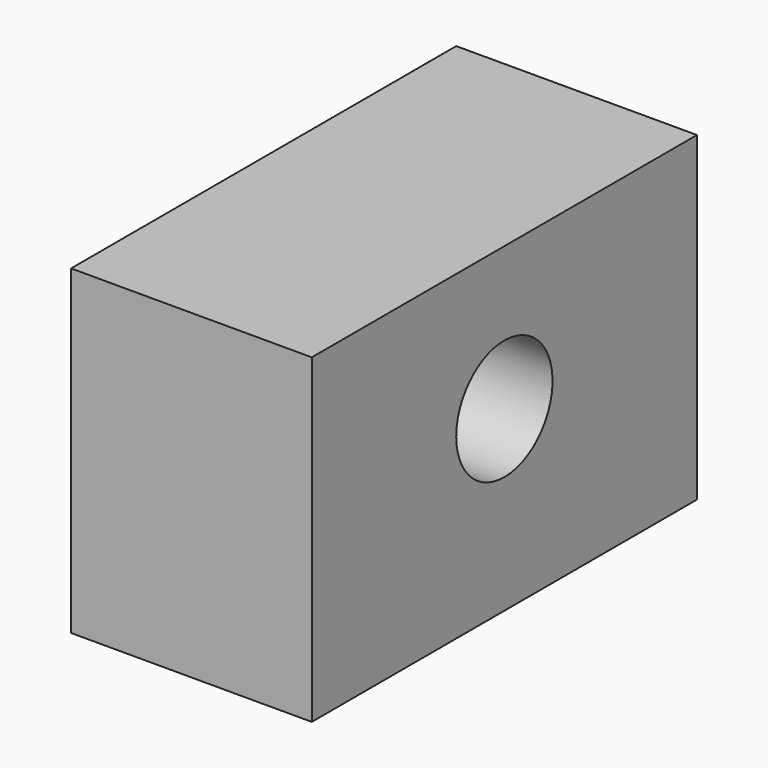
from build123d import *

# Parameters (mm, degrees)
F0_W     = 19.05
F0_H     = 38.1
F1_DEPTH = 25.4
F3_D     = 9.525


with BuildPart() as f1:
    # F0 (on Top) → F1 (new body)
    with BuildSketch(Plane.XY):
        Rectangle(F0_W, F0_H)
    extrude(amount=F1_DEPTH)

    # F3 (through all)
    with Locations(Plane.YZ.offset(9.525)):
        with Locations((0, 14.072823)):
            Hole(F3_D / 2)


solid = f1.part
